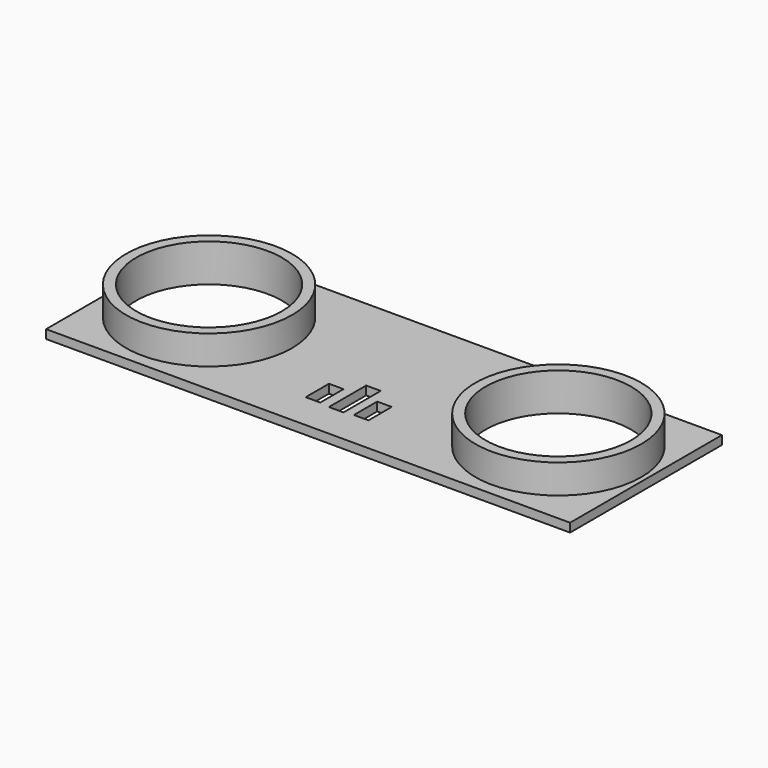
from build123d import *

# Parameters (mm, degrees)
F0_W      = 228.6
F0_H      = 82.804
F1_DEPTH  = 3.81
F2_R      = 36.195
F3_DEPTH  = 12.7
F4_R      = 36.195
F5_DEPTH  = 12.7
F6_R      = 31.75
F7_DEPTH  = 17.78
F8_R      = 31.75
F9_DEPTH  = 17.78
F10_W     = 6.35
F10_H     = 20.32
F11_DEPTH = 7.62
F12_W     = 6.35
F12_H     = 12.7
F13_DEPTH = 7.62
F14_W     = 6.35
F14_H     = 12.7
F15_DEPTH = 7.62


with BuildPart() as f1:
    # F0 (on Top) → F1 (new body)
    with BuildSketch(Plane.XY):
        Rectangle(F0_W, F0_H)
    extrude(amount=F1_DEPTH)

    # F2 (on face) → F3 (join)
    with BuildSketch(Plane.XY.offset(3.81)):
        with Locations((-76.315269, 0)):
            Circle(F2_R)
    extrude(amount=F3_DEPTH)

    # F4 (on face) → F5 (join)
    with BuildSketch(Plane.XY.offset(3.81)):
        with Locations((76.060459, 0)):
            Circle(F4_R)
    extrude(amount=F5_DEPTH)

    # F6 (on face) → F7 (cut)
    with BuildSketch(Plane.XY.offset(16.51)):
        with Locations((-76.315269, 0)):
            Circle(F6_R)
    extrude(amount=-F7_DEPTH, mode=Mode.SUBTRACT)

    # F8 (on face) → F9 (cut)
    with BuildSketch(Plane.XY.offset(16.51)):
        with Locations((76.060459, 0)):
            Circle(F8_R)
    extrude(amount=-F9_DEPTH, mode=Mode.SUBTRACT)

    # F10 (on face) → F11 (cut)
    with BuildSketch(Plane.XY.offset(3.81)):
        with Locations((0, -15.925558)):
            Rectangle(F10_W, F10_H)
    extrude(amount=-F11_DEPTH, mode=Mode.SUBTRACT)

    # F12 (on face) → F13 (cut)
    with BuildSketch(Plane.XY.offset(3.81)):
        with Locations((-10.712087, -19.003488)):
            Rectangle(F12_W, F12_H)
    extrude(amount=-F13_DEPTH, mode=Mode.SUBTRACT)

    # F14 (on face) → F15 (cut)
    with BuildSketch(Plane.XY.offset(3.81)):
        with Locations((10.31976, -19.003488)):
            Rectangle(F14_W, F14_H)
    extrude(amount=-F15_DEPTH, mode=Mode.SUBTRACT)


solid = f1.part
